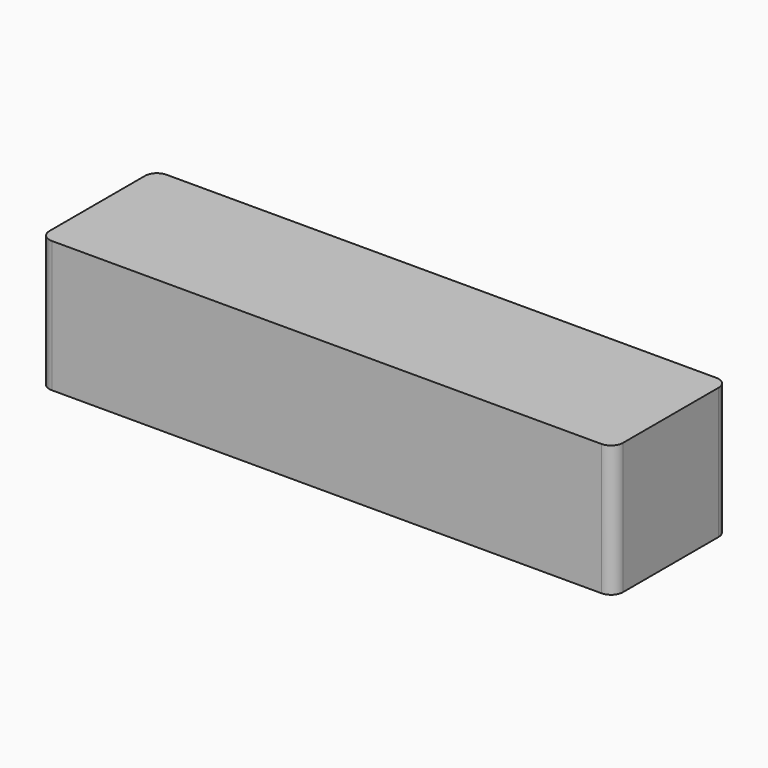
from build123d import *

# Parameters (mm, degrees)
F5_DEPTH = 6.35
F1_DEPTH = 63.5
F2_W     = 8.9604817331
F2_H     = 7.1887969971
F3_DEPTH = 25.4


with BuildPart() as f5:
    # F4 (on Top) → F5 (new body)
    with BuildSketch(Plane.XY):
        with BuildLine():
            Line((-146.05, -38.1), (146.05, -38.1))
            ThreePointArc((146.05, -38.1), (150.5401280605, -36.2401280605), (152.4, -31.75))
            Line((152.4, -31.75), (152.4, 31.75))
            ThreePointArc((152.4, 31.75), (150.5401280605, 36.2401280605), (146.05, 38.1))
            Line((146.05, 38.1), (-146.05, 38.1))
            ThreePointArc((-146.05, 38.1), (-150.5401280605, 36.2401280605), (-152.4, 31.75))
            Line((-152.4, 31.75), (-152.4, -31.75))
            ThreePointArc((-152.4, -31.75), (-150.5401280605, -36.2401280605), (-146.05, -38.1))
        make_face()
    extrude(amount=F5_DEPTH)

    # F0 (on face) → F1 (join)
    with BuildSketch(Plane.XY.offset(6.35)):
        with BuildLine():
            ThreePointArc((-152.4, -31.75), (-150.5401280605, -36.2401280605), (-146.05, -38.1))
            Line((-146.05, -38.1), (146.05, -38.1))
            ThreePointArc((146.05, -38.1), (150.5401280605, -36.2401280605), (152.4, -31.75))
            Line((152.4, -31.75), (152.4, 31.75))
            ThreePointArc((152.4, 31.75), (150.5401280605, 36.2401280605), (146.05, 38.1))
            Line((146.05, 38.1), (-146.05, 38.1))
            ThreePointArc((-146.05, 38.1), (-150.5401280605, 36.2401280605), (-152.4, 31.75))
            Line((-152.4, 31.75), (-152.4, -31.75))
        make_face()
    extrude(amount=F1_DEPTH)

    # F2 (on face) → F3 (cut)
    with BuildSketch(Plane(origin=(0, 38.1, 0), x_dir=(-1, 0, 0), z_dir=(0, 1, 0))):
        with Locations((-24.0083169192, 11.4666037261)):
            Rectangle(F2_W, F2_H)
    extrude(amount=-F3_DEPTH, mode=Mode.SUBTRACT)


solid = f5.part
